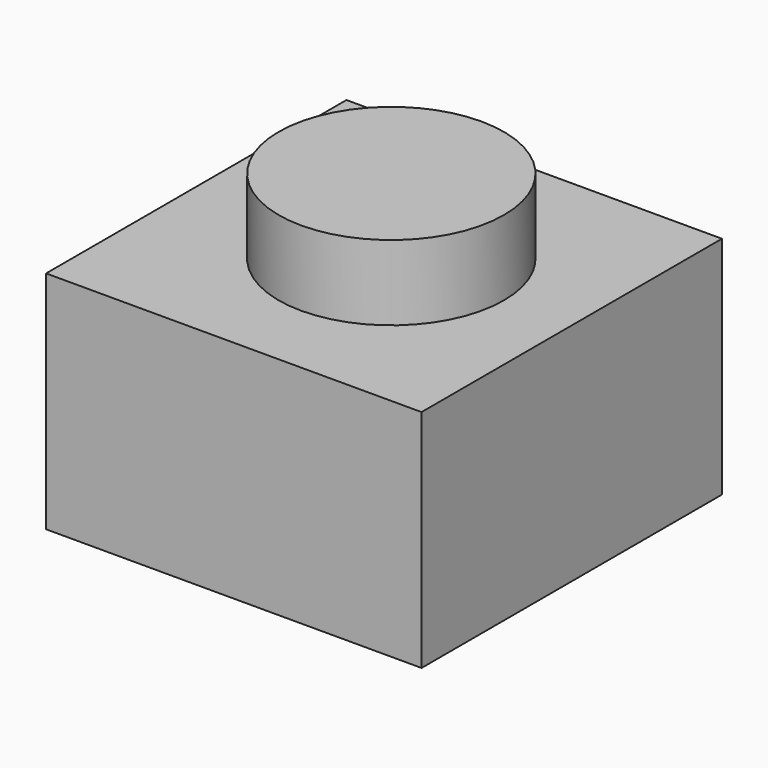
from build123d import *

# Parameters (mm, degrees)
F0_W     = 5
F0_H     = 5
F0_R     = 1.5
F1_DEPTH = 3
F2_DEPTH = 4


with BuildPart() as f1:
    # F0 (on Top) → F1 (new body)
    with BuildSketch(Plane.XY):
        with Locations((2.5, 35.520546)):
            Rectangle(F0_W, F0_H)
        with Locations((2.597283, 35.520546)):
            Circle(F0_R, mode=Mode.SUBTRACT)
        with Locations((2.5, 35.520546)):
            Rectangle(F0_W, F0_H)
        with Locations((2.597283, 35.520546)):
            Circle(F0_R, mode=Mode.SUBTRACT)
        with Locations((2.597283, 35.520546)):
            Circle(F0_R)
    extrude(amount=F1_DEPTH)

    # F0 (on Top) → F2 (join)
    with BuildSketch(Plane.XY):
        with Locations((2.597283, 35.520546)):
            Circle(F0_R)
    extrude(amount=F2_DEPTH)


solid = f1.part
